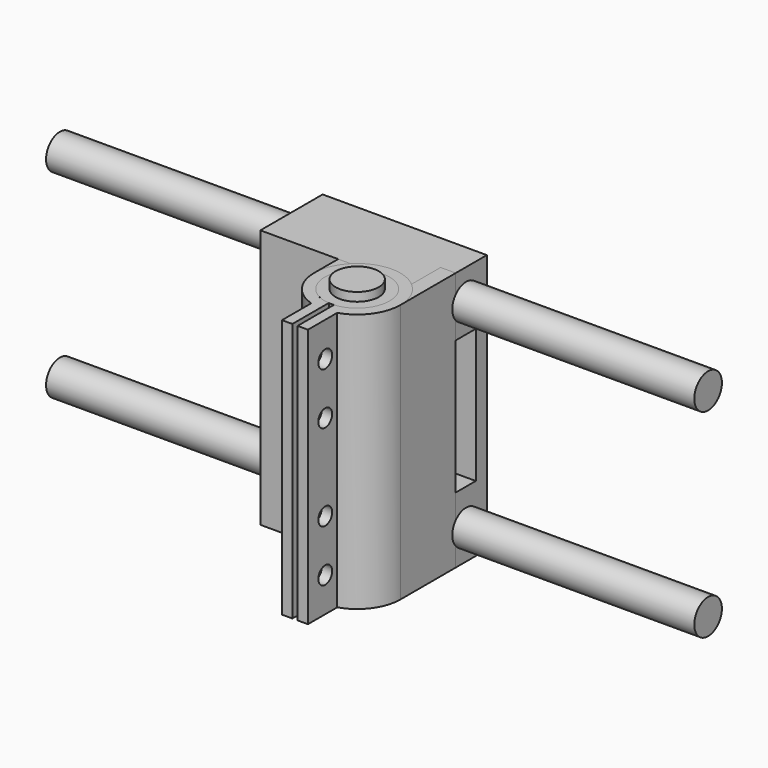
from build123d import *

# Parameters (mm, degrees)
F0_W      = 38
F0_H      = 18
F1_DEPTH  = 60
F2_R      = 4
F3_DEPTH  = 75
F9_W      = 10
F9_H      = 31
F10_DEPTH = 25
F12_R     = 7.5
F13_DEPTH = 23
F18_R     = 5
F19_DEPTH = 62
F22_R     = 10
F23_DEPTH = 60
F27_DEPTH = 60
F29_DEPTH = 60
F36_DEPTH = 60
F37_W     = 1
F37_H     = 7
F38_DEPTH = 60
F39_R     = 2
F40_DEPTH = 25


with BuildPart() as f1:
    # F0 (on Top) → F1 (new body)
    with BuildSketch(Plane.XY):
        Rectangle(F0_W, F0_H)
    extrude(amount=F1_DEPTH)


with BuildPart() as f3:
    # F2 (on Right) → F3 (new body, symmetric)
    with BuildSketch(Plane.YZ):
        Circle(F2_R)
    extrude(amount=F3_DEPTH, both=True)


with BuildPart() as f3_1:
    # F4: moved
    add(f3.part.moved(Location((0, 3, 7))))


with BuildPart() as f5_1:
    # F5: copy of F3
    add(f3_1.part)


with BuildPart() as f5_1_1:
    # F6: moved
    add(f5_1.part.moved(Location((0, 0, 46))))


with BuildPart() as f7_1:
    # F7: copy of F3
    add(f3_1.part)


with BuildPart() as f7_2:
    # F7: copy of F5_1
    add(f5_1_1.part)


with BuildPart() as f1_1:
    add(f1.part)

    # F8: cut F7_1, F7_2
    add(f7_1.part, mode=Mode.SUBTRACT)
    add(f7_2.part, mode=Mode.SUBTRACT)


with BuildPart() as f10:
    # F9 (on Right) → F10 (new body, symmetric)
    with BuildSketch(Plane.YZ):
        with Locations((0.8, 30.783593908)):
            Rectangle(F9_W, F9_H)
    extrude(amount=F10_DEPTH, both=True)


with BuildPart() as f1_2:
    add(f1_1.part)

    # F11: cut F10
    add(f10.part, mode=Mode.SUBTRACT)


with BuildPart() as f13:
    # F12 (on Top) → F13 (new body)
    with BuildSketch(Plane.XY):
        Circle(F12_R)
    extrude(amount=F13_DEPTH)


with BuildPart() as f13_1:
    # F14: moved
    add(f13.part.moved(Location((8, -16, 0))))


with BuildPart() as f13_2:
    # F15: moved
    add(f13_1.part.moved(Location((0, 2, 0))))


with BuildPart() as f16_1:
    # F16: copy of F13
    add(f13_2.part)


with BuildPart() as f16_1_1:
    # F17: moved
    add(f16_1.part.moved(Location((0, 0, 37))))


with BuildPart() as f19:
    # F18 (on Top) → F19 (new body)
    with BuildSketch(Plane.XY):
        Circle(F18_R)
    extrude(amount=F19_DEPTH)


with BuildPart() as f19_1:
    # F20: moved
    add(f19.part.moved(Location((8, -14, 0))))


with BuildPart() as f21_1:
    # F21: copy of F13
    add(f13_2.part)


with BuildPart() as f21_2:
    # F21: copy of F16_1
    add(f16_1_1.part)


with BuildPart() as f21_3:
    # F21: copy of F19
    add(f19_1.part)


with BuildPart() as f23:
    # F22 (on Top) → F23 (new body)
    with BuildSketch(Plane.XY):
        Circle(F22_R)
    extrude(amount=F23_DEPTH)


with BuildPart() as f23_1:
    # F24: moved
    add(f23.part.moved(Location((9, -10, 0))))


with BuildPart() as f23_2:
    # F25: moved
    add(f23_1.part.moved(Location((-1, -4, 0))))

    # F26 (on Top) → F27 (join)
    with BuildSketch(Plane.XY):
        Polygon((7.25, -32), (8.75, -32), (11, -32), (11, -23), (8.75, -23), (7.25, -23), (5, -23), (5, -32), align=None)
    extrude(amount=F27_DEPTH)


with BuildPart() as f29:
    # F28 (on Top) → F29 (new body)
    with BuildSketch(Plane.XY):
        Polygon((7.4, -36.8216373026), (8, -36.8216373026), (8.6, -36.8216373026), (8.6, -16.8216373026), (7.4, -16.8216373026), align=None)
    extrude(amount=F29_DEPTH)


with BuildPart() as f23_3:
    add(f23_2.part)

    # F30: cut F29
    add(f29.part, mode=Mode.SUBTRACT)

    # F31: cut F21_1
    add(f21_1.part, mode=Mode.SUBTRACT)

    # F32: cut F21_2
    add(f21_2.part, mode=Mode.SUBTRACT)

    # F33: cut F21_3
    add(f21_3.part, mode=Mode.SUBTRACT)


with BuildPart() as f23_4:
    # F34: moved
    add(f23_3.part.moved(Location((1, -2, 0))))


with BuildPart() as f19_2:
    # F34: moved
    add(f19_1.part.moved(Location((1, -2, 0))))


with BuildPart() as f16_1_2:
    # F34: moved
    add(f16_1_1.part.moved(Location((1, -2, 0))))


with BuildPart() as f13_3:
    # F34: moved
    add(f13_2.part.moved(Location((1, -2, 0))))


with BuildPart() as f36:
    # F35 (on Top) → F36 (new body)
    with BuildSketch(Plane.XY):
        Polygon((19, 0), (15.5, 0), (15.5, -11), (17, -11), (17, -16), (19, -16), align=None)
    extrude(amount=F36_DEPTH)


with BuildPart() as f38:
    # F37 (on Top) → F38 (new body)
    with BuildSketch(Plane.XY):
        Polygon((2.5, -9), (0, -9), (0, -16), (1, -16), (1, -11), (2.5, -11), align=None)
        with Locations((-0.5, -12.5)):
            Rectangle(F37_W, F37_H)
    extrude(amount=F38_DEPTH)


with BuildPart() as f40:
    # F39 (on Right) → F40 (new body)
    with BuildSketch(Plane.YZ):
        with Locations((-29, 10)):
            Circle(F39_R)
    extrude(amount=F40_DEPTH)


with BuildPart() as f41_1:
    # F41: copy of F40
    add(f40.part)


with BuildPart() as f42_1:
    # F42: copy of F40
    add(f40.part)


with BuildPart() as f42_2:
    # F42: copy of F41_1
    add(f41_1.part)


with BuildPart() as f42_2_1:
    # F43: moved
    add(f42_2.part.moved(Location((0, 0, 40))))


with BuildPart() as f42_1_1:
    # F44: moved
    add(f42_1.part.moved(Location((0, 0, 30))))


with BuildPart() as f41_1_1:
    # F45: moved
    add(f41_1.part.moved(Location((0, 0, 10))))


with BuildPart() as f40_1:
    # F46: moved
    add(f40.part.moved(Location((0, 0, -2))))


with BuildPart() as f42_2_2:
    # F47: moved
    add(f42_2_1.part.moved(Location((0, 0, 2))))


with BuildPart() as f23_5:
    add(f23_4.part)

    # F48: cut F40, F41_1, F42_1, F42_2
    add(f40_1.part, mode=Mode.SUBTRACT)
    add(f41_1_1.part, mode=Mode.SUBTRACT)
    add(f42_1_1.part, mode=Mode.SUBTRACT)
    add(f42_2_2.part, mode=Mode.SUBTRACT)


solid = Compound([f3_1.part, f5_1_1.part, f1_2.part, f19_2.part, f16_1_2.part, f13_3.part, f36.part, f38.part, f23_5.part])
